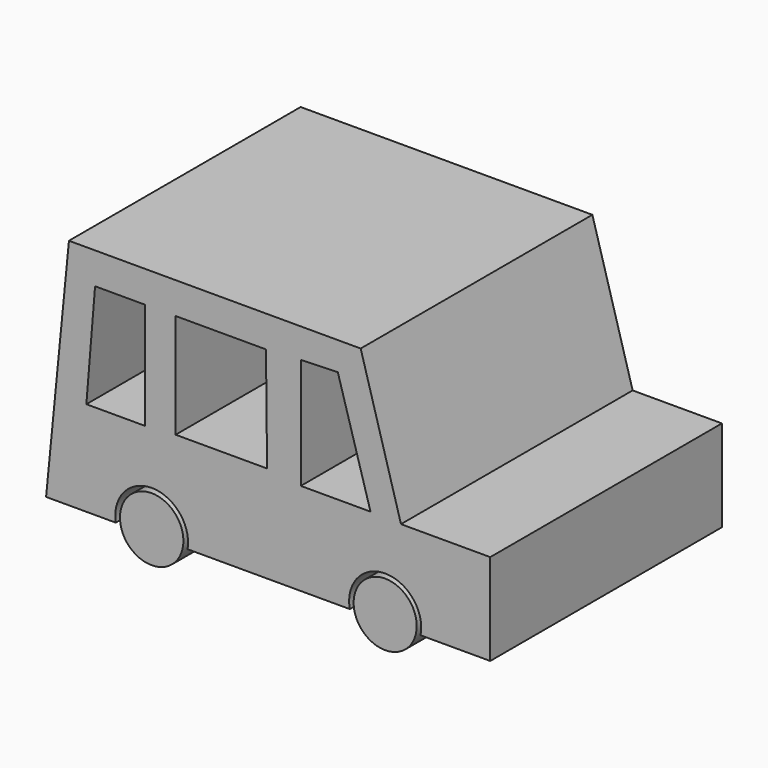
from build123d import *

# Parameters (mm, degrees)
F1_DEPTH  = 50.8
F3_DEPTH  = 50.8
F5_DEPTH  = 50.8
F7_DEPTH  = 50.8
F8_R      = 5.56752
F9_DEPTH  = 7.62
F10_R     = 5.03027
F11_DEPTH = 7.62
F12_R     = 5.531557
F13_DEPTH = 7.62
F14_R     = 5.342098
F15_DEPTH = 7.62
F16_R     = 2.417035
F17_DEPTH = 37.338
F18_R     = 2.555691
F19_DEPTH = 37.846


with BuildPart() as f1:
    # F0 (on Front) → F1 (new body)
    with BuildSketch(Plane.XZ):
        with BuildLine():
            Line((-37.140679, 55.09042), (-41.15073, 14.226122))
            Line((-41.15073, 14.226122), (-28.92963, 14.226122))
            ThreePointArc((-28.92963, 14.226122), (-22.628127, 21.652453), (-16.326623, 14.226122))
            Line((-16.326623, 14.226122), (12.125621, 14.226122))
            ThreePointArc((12.125621, 14.226122), (18.331646, 21.750687), (24.537671, 14.226122))
            Line((24.537671, 14.226122), (36.758773, 14.226122))
            Line((36.758773, 14.226122), (36.758773, 30.266313))
            Line((36.758773, 30.266313), (21.100489, 30.266313))
            Line((21.100489, 30.266313), (14.035167, 55.09042))
            Line((14.035167, 55.09042), (-34.085404, 55.09042))
            Line((-34.085404, 55.09042), (-37.140679, 55.09042))
        make_face()
    extrude(amount=F1_DEPTH)

    # F2 (on face) → F3 (cut)
    with BuildSketch(Plane.XZ.offset(50.8)):
        Polygon((15.753761, 30.457268), (10.025118, 50.125599), (3.53266, 49.934644), (3.53266, 30.457268), align=None)
    extrude(amount=-F3_DEPTH, mode=Mode.SUBTRACT)

    # F4 (on face) → F5 (cut)
    with BuildSketch(Plane.XZ.offset(50.8)):
        Polygon((-18.427124, 31.221086), (-2.386934, 31.221086), (-2.577888, 49.552731), (-18.427124, 49.552731), align=None)
    extrude(amount=-F5_DEPTH, mode=Mode.SUBTRACT)

    # F6 (on face) → F7 (cut)
    with BuildSketch(Plane.XZ.offset(50.8)):
        Polygon((-23.773855, 30.839179), (-23.773855, 49.552731), (-32.557767, 49.552731), (-34.085404, 30.839179), align=None)
    extrude(amount=-F7_DEPTH, mode=Mode.SUBTRACT)


with BuildPart() as f9:
    # F8 (on face) → F9 (new body)
    with BuildSketch(Plane.XZ.offset(50.8)):
        with Locations((-22.628127, 15.265764)):
            Circle(F8_R)
    extrude(amount=-F9_DEPTH)


with BuildPart() as f11:
    # F10 (on face) → F11 (new body)
    with BuildSketch(Plane(origin=(0, 0, 0), x_dir=(-1, 0, 0), z_dir=(0, 1, 0))):
        with Locations((-18.331646, 15.429137)):
            Circle(F10_R)
    extrude(amount=-F11_DEPTH)


with BuildPart() as f13:
    # F12 (on face) → F13 (new body)
    with BuildSketch(Plane.XZ.offset(50.8)):
        with Locations((18.331646, 15.429137)):
            Circle(F12_R)
    extrude(amount=-F13_DEPTH)


with BuildPart() as f15:
    # F14 (on face) → F15 (new body)
    with BuildSketch(Plane(origin=(0, 0, 0), x_dir=(-1, 0, 0), z_dir=(0, 1, 0))):
        with Locations((22.628127, 15.265764)):
            Circle(F14_R)
    extrude(amount=-F15_DEPTH)


with BuildPart() as f17:
    # F16 (on face) → F17 (new body)
    with BuildSketch(Plane(origin=(0, -43.18, 0), x_dir=(-1, 0, 0), z_dir=(0, 1, 0))):
        with Locations((22.628127, 15.265764)):
            Circle(F16_R)
    extrude(amount=F17_DEPTH)


with BuildPart() as f19:
    # F18 (on face) → F19 (new body)
    with BuildSketch(Plane(origin=(0, -43.18, 0), x_dir=(-1, 0, 0), z_dir=(0, 1, 0))):
        with Locations((-18.331646, 15.429137)):
            Circle(F18_R)
    extrude(amount=F19_DEPTH)


solid = Compound([f1.part, f9.part, f11.part, f13.part, f15.part, f17.part, f19.part])
